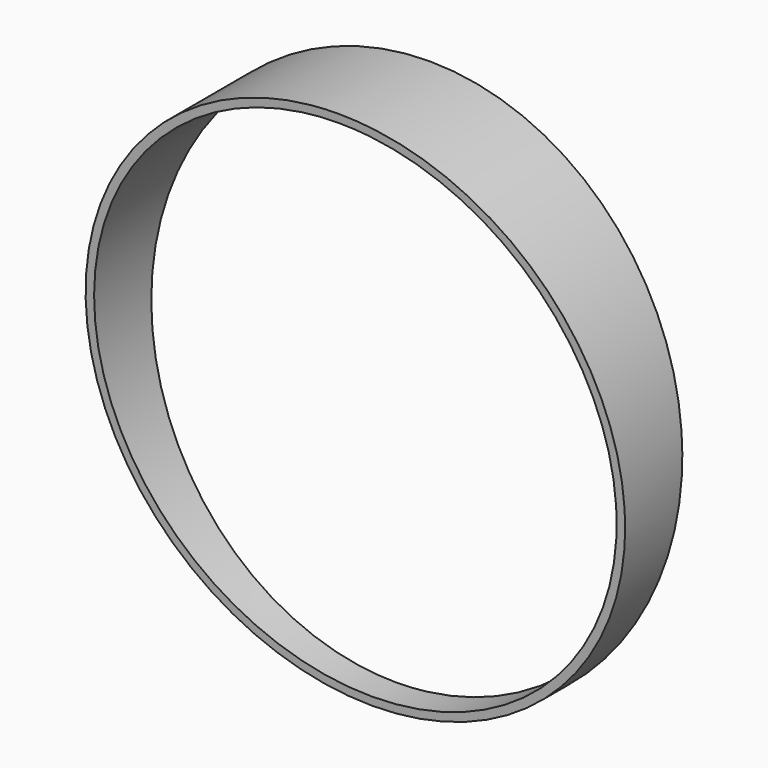
from build123d import *

# Parameters (mm, degrees)
F0_R          = 50.8
F0_R_2        = 49.2
F1_DEPTH      = 1000
F3_DEPTH      = 50.801
F3_DEPTH_BACK = 50.801


with BuildPart() as f1:
    # F0 (on Front) → F1 (new body)
    with BuildSketch(Plane.XZ):
        Circle(F0_R)
        Circle(F0_R_2, mode=Mode.SUBTRACT)
    extrude(amount=-F1_DEPTH)

    # F2 (on Right) → F3 (cut, two sides)
    with BuildSketch(Plane.YZ) as f3_sk:
        Polygon((0, 50.8), (0, -50.8), (7.9960934134, -50.8), align=None)
        Polygon((1000, 50.8), (21.4841868268, 50.8), (13.4880934134, -50.8), (1000, -50.8), align=None)
    extrude(amount=-F3_DEPTH, mode=Mode.SUBTRACT)
    extrude(f3_sk.sketch, amount=F3_DEPTH_BACK, mode=Mode.SUBTRACT)


solid = f1.part
